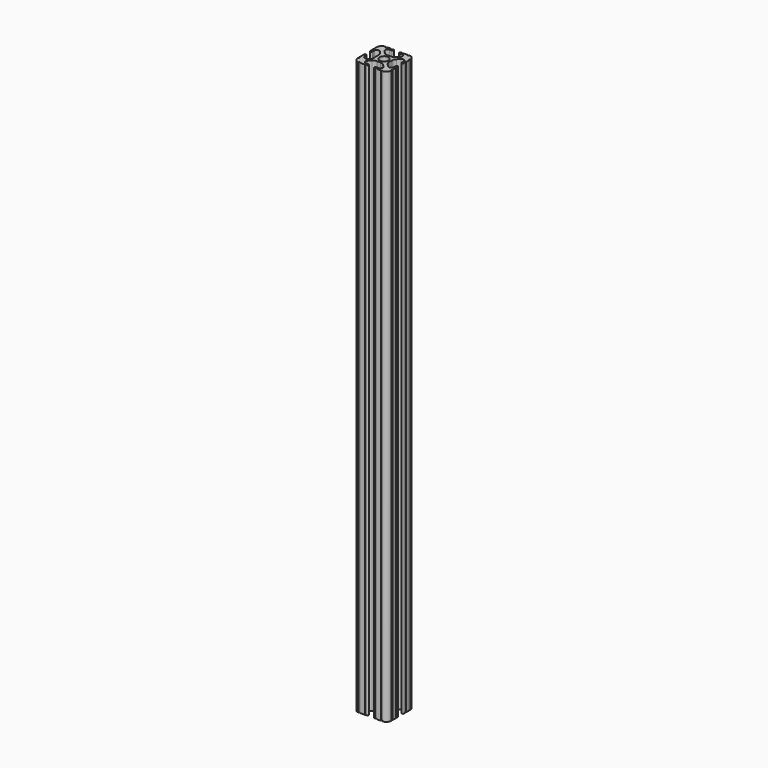
from build123d import *

# Parameters (mm, degrees)
F0_R     = 3.362501
F1_DEPTH = 215.9


with BuildPart() as f1:
    # F0 (on Top) → F1 (new body, symmetric)
    with BuildSketch(Plane.XY):
        with BuildLine():
            ThreePointArc((-7.291522, 15.377258), (-8.527575, 14.551354), (-9.985599, 14.261335))
            Line((-9.985599, 14.261335), (-12.900292, 14.261335))
            ThreePointArc((-12.900292, 14.261335), (-14.358316, 14.551354), (-15.594369, 15.377258))
            Line((-15.594369, 15.377258), (-17.43985, 17.222739))
            ThreePointArc((-17.43985, 17.222739), (-17.852803, 19.29879), (-16.092812, 20.474778))
            Line((-16.092812, 20.474778), (-14.358316, 20.474778))
            Line((-14.358316, 20.474778), (-14.325965, 20.474778))
            ThreePointArc((-14.325965, 20.474778), (-13.56835, 21.248399), (-14.325965, 22.02202))
            Line((-14.325965, 22.02202), (-14.358316, 22.02202))
            Line((-14.358316, 22.02202), (-14.996286, 22.02202))
            ThreePointArc((-14.996286, 22.02202), (-15.544549, 21.480792), (-16.092812, 22.02202))
            Line((-16.092812, 22.02202), (-19.230427, 22.02202))
            ThreePointArc((-19.230427, 22.02202), (-19.781686, 21.470761), (-20.332945, 22.02202))
            ThreePointArc((-20.332945, 22.02202), (-23.027022, 20.906097), (-24.142945, 18.21202))
            Line((-24.142945, 18.21202), (-24.142945, 17.126744))
            Line((-24.142945, 17.126744), (-24.142945, 13.971887))
            ThreePointArc((-24.142945, 13.971887), (-23.587106, 13.424695), (-24.142945, 12.877503))
            Line((-24.142945, 12.877503), (-24.142945, 12.23739))
            ThreePointArc((-24.142945, 12.23739), (-23.369324, 11.481574), (-22.595703, 12.23739))
            Line((-22.595703, 12.23739), (-22.595703, 13.971887))
            ThreePointArc((-22.595703, 13.971887), (-21.419715, 15.731877), (-19.343665, 15.318925))
            Line((-19.343665, 15.318925), (-18.091092, 14.066352))
            ThreePointArc((-18.091092, 14.066352), (-17.265188, 12.830299), (-16.975169, 11.372275))
            Line((-16.975169, 11.372275), (-16.975169, 5.601584))
            ThreePointArc((-16.975169, 5.601584), (-19.785436, 2.791317), (-22.595703, 5.601584))
            Line((-22.595703, 5.601584), (-22.595703, 6.406649))
            ThreePointArc((-22.595703, 6.406649), (-23.369324, 7.18027), (-24.142945, 6.406649))
            Line((-24.142945, 6.406649), (-24.142945, 5.771259))
            Line((-24.142945, 5.771259), (-24.142945, 1.526558))
            ThreePointArc((-24.142945, 1.526558), (-23.589161, 0.979289), (-24.142945, 0.43202))
            ThreePointArc((-24.142945, 0.43202), (-23.027022, -2.262057), (-20.332945, -3.37798))
            ThreePointArc((-20.332945, -3.37798), (-19.783762, -2.823095), (-19.234579, -3.37798))
            Line((-19.234579, -3.37798), (-15.451114, -3.37798))
            ThreePointArc((-15.451114, -3.37798), (-14.904715, -2.837846), (-14.358316, -3.37798))
            ThreePointArc((-14.358316, -3.37798), (-13.597129, -2.60328), (-14.358316, -1.82858))
            Line((-14.358316, -1.82858), (-16.090654, -1.82858))
            ThreePointArc((-16.090654, -1.82858), (-17.850645, -0.652592), (-17.437693, 1.423458))
            Line((-17.437693, 1.423458), (-15.594369, 3.266782))
            ThreePointArc((-15.594369, 3.266782), (-14.358316, 4.092686), (-12.900292, 4.382705))
            Line((-12.900292, 4.382705), (-9.985599, 4.382705))
            ThreePointArc((-9.985599, 4.382705), (-8.527575, 4.092686), (-7.291522, 3.266782))
            Line((-7.291522, 3.266782), (-5.448198, 1.423458))
            ThreePointArc((-5.448198, 1.423458), (-5.035246, -0.652592), (-6.795236, -1.82858))
            Line((-6.795236, -1.82858), (-8.527575, -1.82858))
            ThreePointArc((-8.527575, -1.82858), (-9.144781, -2.60328), (-8.527575, -3.37798))
            Line((-8.527575, -3.37798), (-7.895813, -3.37798))
            ThreePointArc((-7.895813, -3.37798), (-7.345525, -2.832718), (-6.795236, -3.37798))
            Line((-6.795236, -3.37798), (-3.641811, -3.37798))
            ThreePointArc((-3.641811, -3.37798), (-3.097378, -2.833547), (-2.552945, -3.37798))
            ThreePointArc((-2.552945, -3.37798), (0.141132, -2.262057), (1.257055, 0.43202))
            ThreePointArc((1.257055, 0.43202), (0.717674, 0.97812), (1.257055, 1.52422))
            Line((1.257055, 1.52422), (1.257055, 4.674311))
            ThreePointArc((1.257055, 4.674311), (0.713538, 5.22368), (1.257055, 5.773049))
            Line((1.257055, 5.773049), (1.257055, 6.406649))
            ThreePointArc((1.257055, 6.406649), (0.482355, 7.126711), (-0.292345, 6.406649))
            Line((-0.292345, 6.406649), (-0.292345, 4.674311))
            ThreePointArc((-0.292345, 4.674311), (-1.468333, 2.91432), (-3.544384, 3.327273))
            Line((-3.544384, 3.327273), (-5.387707, 5.170596))
            ThreePointArc((-5.387707, 5.170596), (-6.213612, 6.406649), (-6.503631, 7.864673))
            Line((-6.503631, 7.864673), (-6.503631, 10.779367))
            ThreePointArc((-6.503631, 10.779367), (-6.213612, 12.23739), (-5.387707, 13.473443))
            Line((-5.387707, 13.473443), (-3.544384, 15.316767))
            ThreePointArc((-3.544384, 15.316767), (-1.468333, 15.729719), (-0.292345, 13.969729))
            Line((-0.292345, 13.969729), (-0.292345, 12.23739))
            ThreePointArc((-0.292345, 12.23739), (0.482355, 11.501425), (1.257055, 12.23739))
            Line((1.257055, 12.23739), (1.257055, 12.877529))
            ThreePointArc((1.257055, 12.877529), (0.710955, 13.423629), (1.257055, 13.969729))
            Line((1.257055, 13.969729), (1.257055, 17.117185))
            ThreePointArc((1.257055, 17.117185), (0.705999, 17.664602), (1.257055, 18.21202))
            ThreePointArc((1.257055, 18.21202), (0.141132, 20.906097), (-2.552945, 22.02202))
            ThreePointArc((-2.552945, 22.02202), (-3.108248, 21.525639), (-3.663551, 22.02202))
            Line((-3.663551, 22.02202), (-6.793078, 22.02202))
            ThreePointArc((-6.793078, 22.02202), (-7.33931, 21.481453), (-7.885542, 22.02202))
            Line((-7.885542, 22.02202), (-8.527575, 22.02202))
            Line((-8.527575, 22.02202), (-8.599148, 22.02202))
            ThreePointArc((-8.599148, 22.02202), (-9.33781, 21.248399), (-8.599148, 20.474778))
            Line((-8.599148, 20.474778), (-8.527575, 20.474778))
            Line((-8.527575, 20.474778), (-6.793078, 20.474778))
            ThreePointArc((-6.793078, 20.474778), (-5.033088, 19.29879), (-5.44604, 17.222739))
            Line((-5.44604, 17.222739), (-7.291522, 15.377258))
        make_face()
        with Locations((-11.442945, 9.32202)):
            Circle(F0_R, mode=Mode.SUBTRACT)
        with BuildLine():
            ThreePointArc((-8.599148, 20.474778), (-8.563361, 20.473951), (-8.527575, 20.474778))
            Line((-8.527575, 20.474778), (-8.599148, 20.474778))
        make_face()
        with BuildLine():
            Line((-14.325965, 20.474778), (-14.358316, 20.474778))
            ThreePointArc((-14.358316, 20.474778), (-14.34214, 20.474609), (-14.325965, 20.474778))
        make_face()
        with BuildLine():
            ThreePointArc((-8.527575, 22.02202), (-8.563361, 22.022847), (-8.599148, 22.02202))
            Line((-8.599148, 22.02202), (-8.527575, 22.02202))
        make_face()
        with BuildLine():
            Line((-14.358316, 22.02202), (-14.325965, 22.02202))
            ThreePointArc((-14.325965, 22.02202), (-14.34214, 22.022189), (-14.358316, 22.02202))
        make_face()
    extrude(amount=F1_DEPTH, both=True)


solid = f1.part
